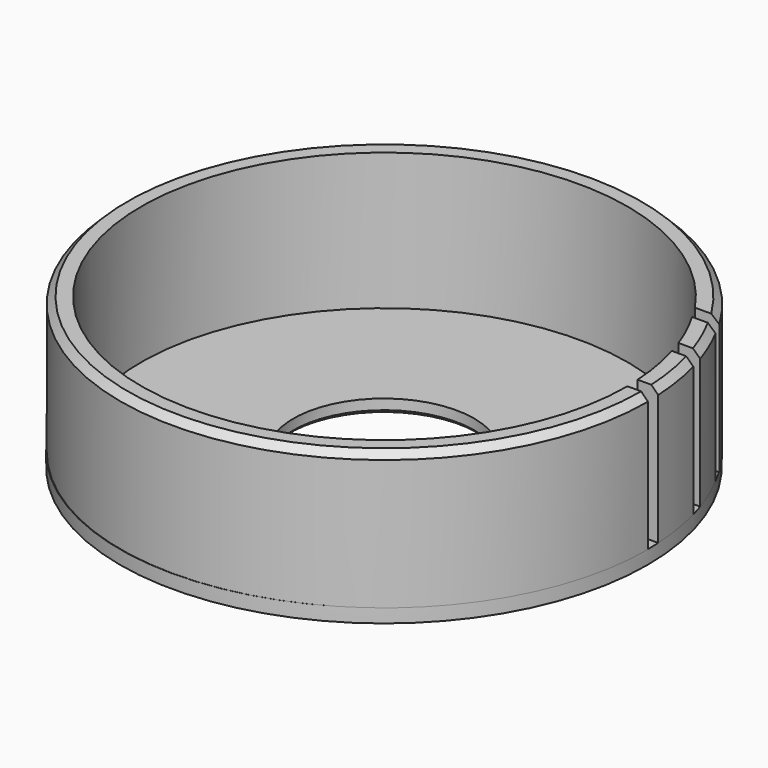
from build123d import *

# Parameters (mm, degrees)
SKETCH_R        = 38.5
SKETCH_R_2      = 13.2
PAD_DEPTH       = 2
PAD001_DEPTH    = 20
PAD002_DEPTH    = 20
PAD003_DEPTH    = 20
CHAMFER_SIZE    = 1
CHAMFER001_SIZE = 1
CHAMFER002_SIZE = 1
CHAMFER003_SIZE = 0.5


with BuildPart() as part:
    # Sketch → Pad (new body)
    with BuildSketch(Plane.XY):
        Circle(SKETCH_R)
        Circle(SKETCH_R_2, mode=Mode.SUBTRACT)
    extrude(amount=PAD_DEPTH)

    # Sketch001 (on Face4 of Pad) → Pad001 (join)
    with BuildSketch(Plane.XY.offset(2)):
        with BuildLine():
            ThreePointArc((29.4355806661, 19.9653668161), (-33.881351172, -10.373953904), (35.5584664799, 5.03191e-05))
            Line((35.5584664799, 5.03191e-05), (38.5584677887, 5.03191e-05))
            ThreePointArc((32.9980317105, 19.9653668161), (-37.0299944858, -10.2947354738), (38.5584677887, 5.03191e-05))
            Line((32.9980317105, 19.9653668161), (29.4355806661, 19.9653668161))
        make_face()
    extrude(amount=PAD001_DEPTH)

    # Sketch002 (on Face4 of Pad001) → Pad002 (join)
    with BuildSketch(Plane.XY.offset(2)):
        with BuildLine():
            ThreePointArc((38.4481958149, 1.9965566804), (38.0259798013, 6.0228614586), (37.1833064686, 9.9825708144))
            Line((37.1833064686, 9.9825708144), (34.0675546515, 9.9825708144))
            ThreePointArc((35.4438113275, 1.9965566804), (34.9843051311, 6.02896297), (34.0675546515, 9.9825708144))
            Line((35.4438113275, 1.9965566804), (38.4481958149, 1.9965566804))
        make_face()
    extrude(amount=PAD002_DEPTH)

    # Sketch003 (on Face3 of Pad002) → Pad003 (join)
    with BuildSketch(Plane.XY.offset(2)):
        with BuildLine():
            Line((33.4177914057, 11.9791993709), (36.5889161145, 11.9791993709))
            ThreePointArc((36.5889161145, 11.9791993709), (35.4459881583, 15.0277051968), (34.0495834936, 17.9687468653))
            Line((34.0495834936, 17.9687468653), (30.6165663668, 17.9687468653))
            ThreePointArc((33.4177914057, 11.9791993709), (32.1569341454, 15.0393346386), (30.6165663668, 17.9687468653))
        make_face()
    extrude(amount=PAD003_DEPTH)

    # Chamfer
    chamfer_edges = [part.edges().sort_by_distance(p)[0] for p in [
        (-37.029994, -10.294735, 22),
    ]]
    chamfer(chamfer_edges, length=CHAMFER_SIZE)

    # Chamfer001
    chamfer001_edges = [part.edges().sort_by_distance(p)[0] for p in [
        (38.02598, 6.022861, 22),
    ]]
    chamfer(chamfer001_edges, length=CHAMFER001_SIZE)

    # Chamfer002
    chamfer002_edges = [part.edges().sort_by_distance(p)[0] for p in [
        (35.445988, 15.027705, 22),
    ]]
    chamfer(chamfer002_edges, length=CHAMFER002_SIZE)

    # Chamfer003
    chamfer003_edges = [part.edges().sort_by_distance(p)[0] for p in [
        (-13.2, 0, 0),
    ]]
    chamfer(chamfer003_edges, length=CHAMFER003_SIZE)


solid = part.part
